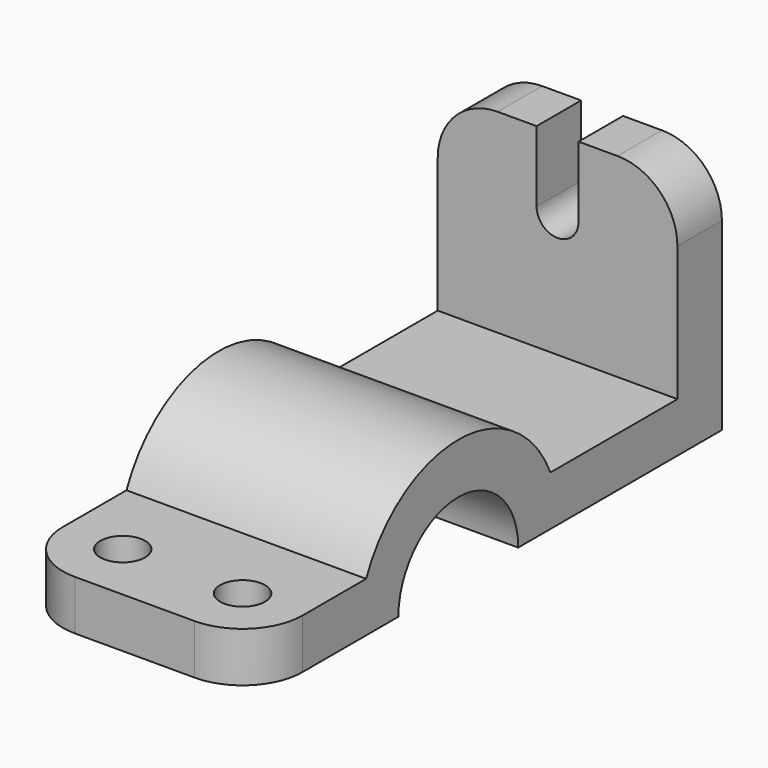
from build123d import *

# Parameters (mm, degrees)
F1_DEPTH = 40
F2_R     = 20
F4_DEPTH = 18.572422
F5_R     = 7.5
F6_DEPTH = 16.624377


with BuildPart() as f1:
    # F0 (on Right) → F1 (new body, symmetric)
    with BuildSketch(Plane.YZ):
        with BuildLine():
            Line((-63.67937, -21.339411), (-110.237809, -21.339411))
            Line((-110.237809, -21.339411), (-110.237809, -37.962787))
            Line((-110.237809, -37.962787), (-50.237809, -37.962787))
            ThreePointArc((-50.237809, -37.962787), (-25.237809, -12.962787), (-0.237809, -37.962787))
            Line((-0.237809, -37.962787), (84.762191, -37.962787))
            Line((84.762191, -37.962787), (84.762191, 43.595657))
            Line((84.762191, 43.595657), (66.190769, 43.595657))
            Line((66.190769, 43.595657), (66.190769, -21.339411))
            Line((66.190769, -21.339411), (13.203752, -21.339411))
            ThreePointArc((13.203752, -21.339411), (-25.237809, 3.919073), (-63.67937, -21.339411))
        make_face()
    extrude(amount=F1_DEPTH, both=True)

    # F2
    f2_edges = [f1.edges().sort_by_distance(p)[0] for p in [
        (40, -110.237809, -29.651099),
        (-40, -110.237809, -29.651099),
        (40, 75.47648, 43.595657),
        (-40, 75.47648, 43.595657),
    ]]
    fillet(f2_edges, radius=F2_R)

    # F3 (on face) → F4 (cut, through all)
    with BuildSketch(Plane.XZ.offset(-66.190769)):
        with BuildLine():
            Line((-7, 43.595657), (-7, 20))
            ThreePointArc((-7, 20), (0, 13), (7, 20))
            Line((7, 20), (7, 43.595657))
            Line((7, 43.595657), (-7, 43.595657))
        make_face()
    extrude(amount=-F4_DEPTH, mode=Mode.SUBTRACT)

    # F5 (on face) → F6 (cut, through all)
    with BuildSketch(Plane.XY.offset(-21.339411)):
        with Locations((-20, -90.237809)):
            Circle(F5_R)
        with Locations((20, -90.237809)):
            Circle(F5_R)
    extrude(amount=-F6_DEPTH, mode=Mode.SUBTRACT)


solid = f1.part
